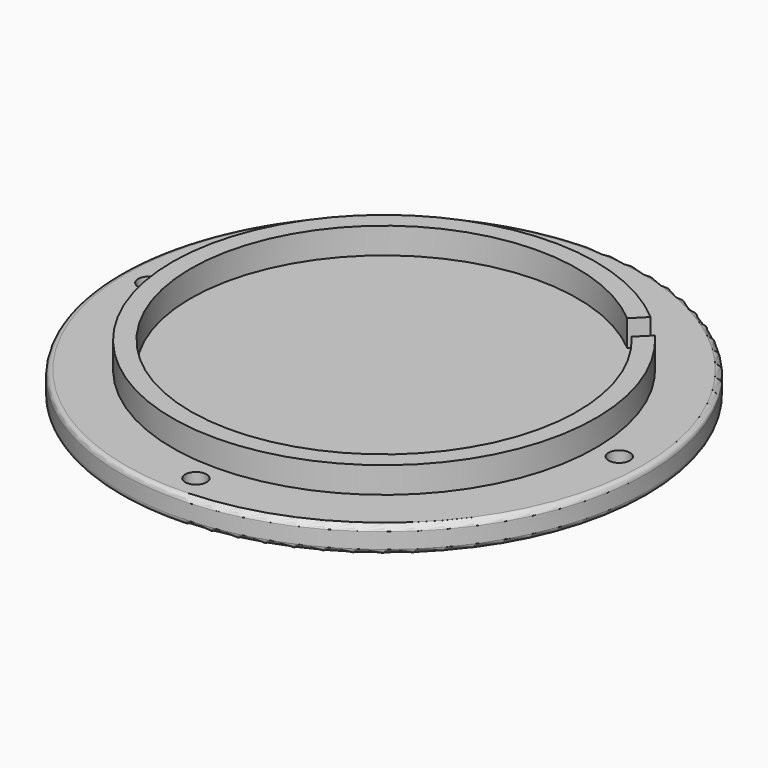
from build123d import *

# Parameters (mm, degrees)
SKETCH_R        = 50.5
PAD_DEPTH       = 5
SKETCH001_R     = 40.5
PAD001_DEPTH    = 5
SKETCH002_R     = 37
POCKET_DEPTH    = 5
POCKET001_DEPTH = 5
SKETCH004_R     = 2.05
POCKET002_DEPTH = 5
CHAMFER_SIZE    = 2
FILLET_R        = 1


with BuildPart() as part:
    # Sketch → Pad (new body)
    with BuildSketch(Plane.XY):
        Circle(SKETCH_R)
    extrude(amount=PAD_DEPTH)

    # Sketch001 (on Face3 of Pad) → Pad001 (join)
    with BuildSketch(Plane.XY.offset(5)):
        Circle(SKETCH001_R)
    extrude(amount=PAD001_DEPTH)

    # Sketch002 (on Face5 of Pad001) → Pocket (cut)
    with BuildSketch(Plane.XY.offset(10)):
        Circle(SKETCH002_R)
    extrude(amount=-POCKET_DEPTH, mode=Mode.SUBTRACT)

    # Sketch003 (on Face5 of Pocket) → Pocket001 (cut)
    with BuildSketch(Plane.XY.offset(10)):
        Polygon((26.870058, 31.112698), (31.112698, 26.870058), (26.870058, 22.627417), (22.627417, 26.870058), align=None)
    extrude(amount=-POCKET001_DEPTH, mode=Mode.SUBTRACT)

    # Sketch004 (on Face2 of Pocket001) → Pocket002 (cut)
    with BuildSketch(Plane(origin=(0, 0, 0), x_dir=(1, 0, 0), z_dir=(0, 0, -1))):
        with Locations((0, 45)):
            Circle(SKETCH004_R)
        with Locations((-45, 0)):
            Circle(SKETCH004_R)
        with Locations((45, 0)):
            Circle(SKETCH004_R)
        with Locations((0, -45)):
            Circle(SKETCH004_R)
    extrude(amount=-POCKET002_DEPTH, mode=Mode.SUBTRACT)

    # Chamfer
    chamfer_edges = [part.edges().sort_by_distance(p)[0] for p in [
        (42.95, 0, 0),
        (-2.05, 45, 0),
        (-47.05, 0, 0),
        (-2.05, -45, 0),
    ]]
    chamfer(chamfer_edges, length=CHAMFER_SIZE)

    # Fillet
    fillet_edges = [part.edges().sort_by_distance(p)[0] for p in [
        (-50.5, 0, 0),
        (-50.5, 0, 5),
    ]]
    fillet(fillet_edges, radius=FILLET_R)


solid = part.part
